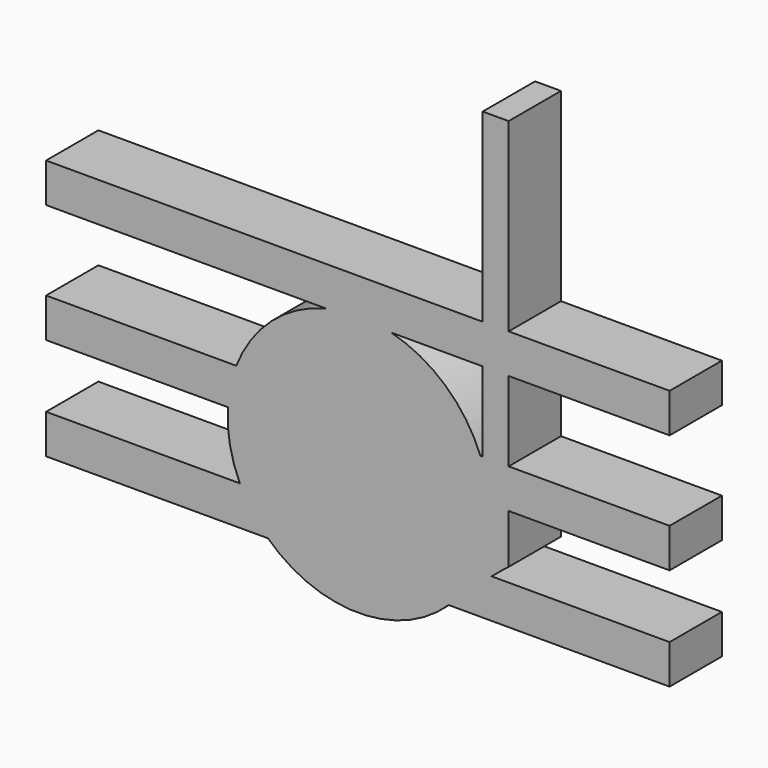
from build123d import *

# Parameters (mm, degrees)
F1_DEPTH = 15
F2_W     = 143
F2_H     = 9
F3_DEPTH = 15
F5_DEPTH = 15


with BuildPart() as f1:
    # F0 (on Front) → F1 (new body)
    with BuildSketch(Plane.XZ):
        with BuildLine():
            ThreePointArc((28.481948, -47.459981), (29.618056, -42.809614), (30, -38.03774))
            ThreePointArc((30, -38.03774), (29.618056, -33.265866), (28.481948, -28.615498))
            ThreePointArc((28.481948, -28.615498), (-29.557796, -32.905813), (23.638915, -56.509385))
            ThreePointArc((23.638915, -56.509385), (26.450312, -52.193338), (28.481948, -47.459981))
        make_face()
        with BuildLine():
            ThreePointArc((28.481948, -28.615498), (29.618056, -33.265866), (30, -38.03774))
            ThreePointArc((30, -38.03774), (29.618056, -42.809614), (28.481948, -47.459981))
            Line((28.481948, -47.459981), (34.471702, -47.459981))
            Line((34.471702, -47.459981), (34.471702, 42.198131))
            Line((34.471702, 42.198131), (28.481948, 42.198131))
            Line((28.481948, 42.198131), (28.481948, -28.615498))
        make_face()
        with BuildLine():
            Line((34.471702, -47.459981), (28.481948, -47.459981))
            ThreePointArc((28.481948, -47.459981), (26.450312, -52.193338), (23.638915, -56.509385))
            Line((23.638915, -56.509385), (34.471702, -47.459981))
        make_face()
    extrude(amount=F1_DEPTH)

    # F2 (on Front) → F3 (join)
    with BuildSketch(Plane.XZ):
        with Locations((-0.117924, -4.5)):
            Rectangle(F2_W, F2_H)
        with Locations((-0.117924, -31.754719)):
            Rectangle(F2_W, F2_H)
        with Locations((-0.117924, -55.231133)):
            Rectangle(F2_W, F2_H)
    extrude(amount=F3_DEPTH)

    # F4 (on Front) → F5 (join)
    with BuildSketch(Plane.XZ):
        with BuildLine():
            ThreePointArc((24.910641, -54.754796), (28.699471, -46.775038), (30, -38.03774))
            ThreePointArc((30, -38.03774), (29.629791, -33.339287), (28.528303, -28.756795))
            ThreePointArc((28.528303, -28.756795), (-29.713704, -33.903032), (24.910641, -54.754796))
        make_face()
        with BuildLine():
            ThreePointArc((28.528303, -28.756795), (29.629791, -33.339287), (30, -38.03774))
            ThreePointArc((30, -38.03774), (28.699471, -46.775038), (24.910641, -54.754796))
            Line((24.910641, -54.754796), (34.471702, -47.547173))
            Line((34.471702, -47.547173), (34.471702, 42.452827))
            Line((34.471702, 42.452827), (28.528303, 42.452827))
            Line((28.528303, 42.452827), (28.528303, -28.756795))
        make_face()
    extrude(amount=F5_DEPTH)


solid = f1.part
